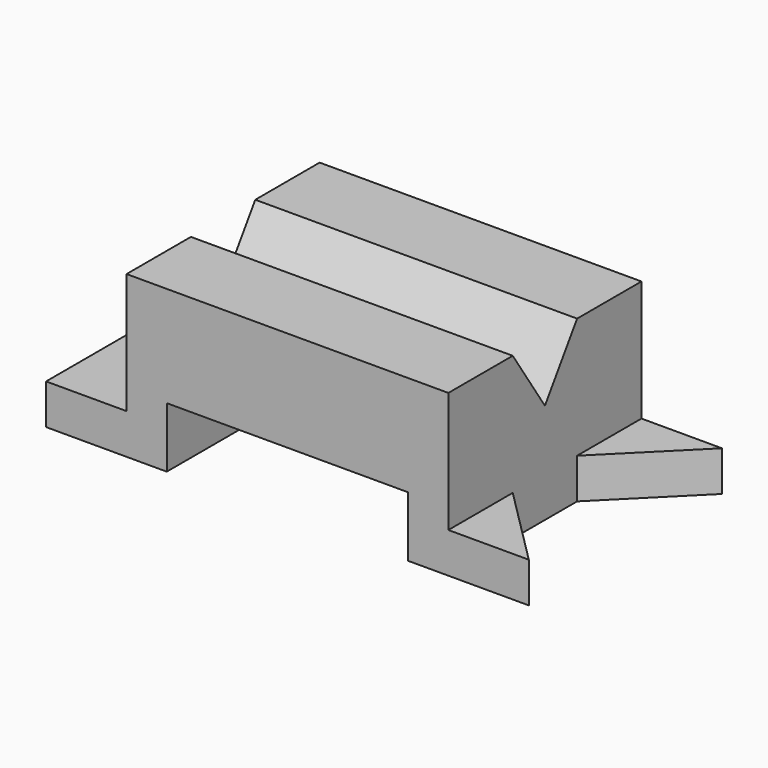
from build123d import *

# Parameters (mm, degrees)
F1_DEPTH = 76.2
F3_DEPTH = 12.7
F5_DEPTH = 152.4


with BuildPart() as f1:
    # F0 (on Front) → F1 (new body)
    with BuildSketch(Plane.XZ):
        Polygon((-38.780687, 0), (-64.180687, 0), (-64.180687, -12.7), (-26.080687, -12.7), (-26.080687, 6.35), (50.119313, 6.35), (50.119313, -12.7), (88.219313, -12.7), (88.219313, 0), (62.819313, 0), (62.819313, 38.1), (50.119313, 38.1), (-38.780687, 38.1), align=None)
    extrude(amount=F1_DEPTH)

    # F2 (on face) → F3 (cut)
    with BuildSketch(Plane.XY):
        Polygon((62.819313, -25.4), (62.819313, -50.8), (88.219313, -76.2), (88.219313, 0), align=None)
    extrude(amount=-F3_DEPTH, mode=Mode.SUBTRACT)

    # F4 (on face) → F5 (cut)
    with BuildSketch(Plane.YZ.offset(62.819313)):
        Polygon((-25.4, 38.1), (-50.8, 38.1), (-38.1, 19.05), align=None)
    extrude(amount=-F5_DEPTH, mode=Mode.SUBTRACT)


solid = f1.part
